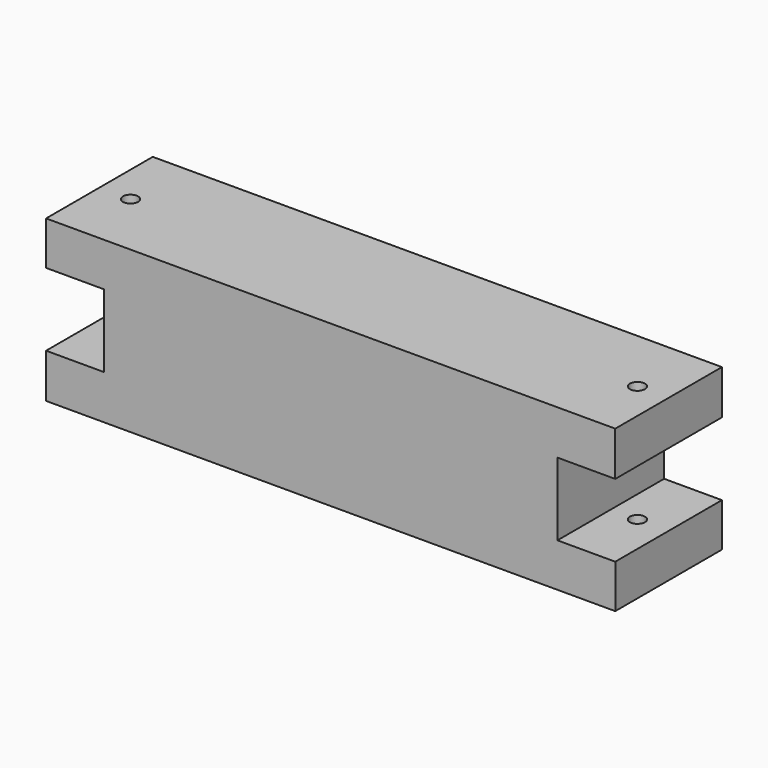
from build123d import *

# Parameters (mm, degrees)
PAD_DEPTH          = 30
SKETCH001_R        = 1.698779
SKETCH001_R_2      = 1.697275
POCKET_DEPTH       = 137.607308
POCKET001_DEPTH    = 3.3
POCKET001_FACE8_W  = 30
POCKET001_FACE8_H  = 12.999695
POCKET001_FACE8_R  = 1.698779
POCKET002_DEPTH    = 0.2
POCKET002_FACE11_W = 30
POCKET002_FACE11_H = 13.000122
POCKET002_FACE11_R = 1.698779
POCKET003_DEPTH    = 0.2
POCKET003_FACE16_W = 30
POCKET003_FACE16_H = 13.005555
POCKET003_FACE16_R = 1.697275
POCKET004_DEPTH    = 0.2
POCKET004_FACE19_W = 30
POCKET004_FACE19_H = 13.004761
POCKET004_FACE19_R = 1.697275
POCKET005_DEPTH    = 0.2


with BuildPart() as part:
    # Sketch → Pad (new body)
    with BuildSketch(Plane.XZ.offset(-204.7)):
        Polygon((442.140533, 170.606308), (570.199951, 170.606308), (570.199951, 160.446457), (557.19519, 160.446457), (557.19519, 144.454102), (570.200745, 144.454102), (570.200745, 134.453659), (442.140106, 134.453659), (442.140106, 144.601944), (455.140228, 144.601944), (455.140228, 160.599991), (442.140533, 160.599991), align=None)
    extrude(amount=-PAD_DEPTH)

    # Sketch001 → Pocket (cut, through all)
    with BuildSketch(Plane.XY.offset(33)):
        with Locations((449.144109, 219.697878)):
            Circle(SKETCH001_R)
        with Locations((563.197394, 219.696552)):
            Circle(SKETCH001_R_2)
    extrude(amount=POCKET_DEPTH, mode=Mode.SUBTRACT)

    # Sketch002 → Pocket001 (cut)
    with BuildSketch(Plane.XY.offset(134.45)):
        Polygon((447.4586694554, 222.4277322113), (445.9354318133, 219.6021619882), (447.6208285856, 216.8702143825), (450.829463, 216.963837), (452.3527006421, 219.7894072231), (450.6673038698, 222.5213548287), align=None)
        Polygon((561.3429027745, 222.3136473905), (560.000239016, 219.3979392379), (561.8539844669, 216.7773042379), (565.0503936764, 217.0723773905), (566.393057435, 219.9880855431), (564.539311984, 222.6087205431), align=None)
    extrude(amount=POCKET001_DEPTH, mode=Mode.SUBTRACT)

    # Pocket001 Face8 → Pocket002 (cut)
    with BuildSketch(Plane(origin=(448.6283915528, 219.7000505045, 160.599991), x_dir=(0, -1, 0), z_dir=(0, 0, -1))):
        with Locations((5.05045e-05, -0.0119889472)):
            Rectangle(POCKET001_FACE8_W, POCKET001_FACE8_H)
        with Locations((0.0021725045, -0.5157174472)):
            Circle(POCKET001_FACE8_R, mode=Mode.SUBTRACT)
    extrude(amount=-POCKET002_DEPTH, mode=Mode.SUBTRACT)

    # Pocket002 Face11 → Pocket003 (cut)
    with BuildSketch(Plane(origin=(448.6281733748, 219.7000505028, 144.601944), x_dir=(0, 1, 0), z_dir=(0, 0, 1))):
        with Locations((-5.05028e-05, -0.0119936252)):
            Rectangle(POCKET002_FACE11_W, POCKET002_FACE11_H)
        with Locations((-0.0021725028, -0.5159356252)):
            Circle(POCKET002_FACE11_R, mode=Mode.SUBTRACT)
    extrude(amount=-POCKET003_DEPTH, mode=Mode.SUBTRACT)

    # Pocket003 Face16 → Pocket004 (cut)
    with BuildSketch(Plane(origin=(563.709854284, 219.7000818773, 144.454102), x_dir=(0, 1, 0), z_dir=(0, 0, 1))):
        with Locations((-8.18773e-05, 0.011886784)):
            Rectangle(POCKET003_FACE16_W, POCKET003_FACE16_H)
        with Locations((-0.0035298773, 0.512460284)):
            Circle(POCKET003_FACE16_R, mode=Mode.SUBTRACT)
    extrude(amount=-POCKET004_DEPTH, mode=Mode.SUBTRACT)

    # Pocket004 Face19 → Pocket005 (cut)
    with BuildSketch(Plane(origin=(563.7094485991, 219.7000818825, 160.446457), x_dir=(0, -1, 0), z_dir=(0, 0, -1))):
        with Locations((8.18825e-05, 0.0118780991)):
            Rectangle(POCKET004_FACE19_W, POCKET004_FACE19_H)
        with Locations((0.0035298825, 0.5120545991)):
            Circle(POCKET004_FACE19_R, mode=Mode.SUBTRACT)
    extrude(amount=-POCKET005_DEPTH, mode=Mode.SUBTRACT)


solid = part.part
